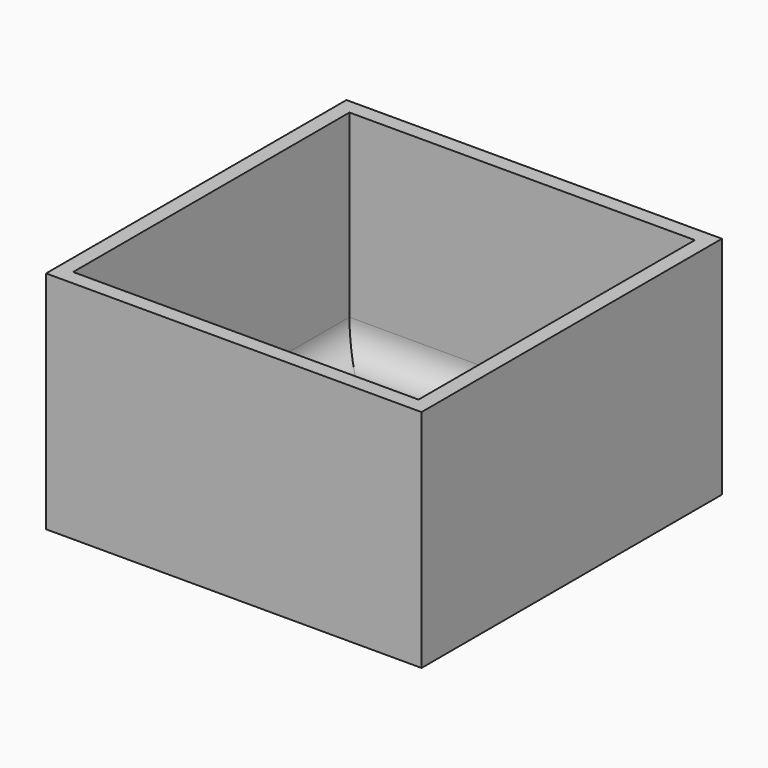
from build123d import *

# Parameters (mm, degrees)
F2_W     = 50
F2_H     = 50
F3_DEPTH = 30
F4_T     = -2
F5_R     = 4


with BuildPart() as f3:
    # F2 (on Top) → F3 (new body)
    with BuildSketch(Plane.XY):
        Rectangle(F2_W, F2_H)
    extrude(amount=F3_DEPTH)

    # F4
    f4_openings = [f3.faces().sort_by_distance(p)[0] for p in [
        (0, 0, 30),
    ]]
    offset(amount=F4_T, openings=f4_openings)

    # F5
    f5_edges = [f3.edges().sort_by_distance(p)[0] for p in [
        (0, 23, 2),
        (-23, 0, 2),
        (23, 0, 2),
        (0, -23, 2),
    ]]
    fillet(f5_edges, radius=F5_R)


solid = f3.part
